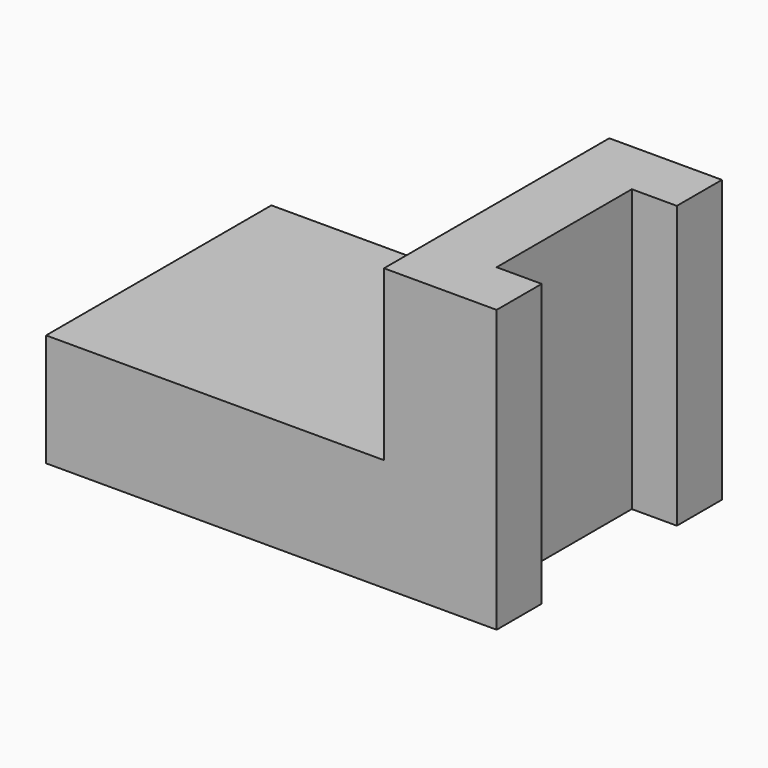
from build123d import *

# Parameters (mm, degrees)
F1_DEPTH = 50
F2_W     = 8
F2_H     = 30
F3_DEPTH = 50.001


with BuildPart() as f1:
    # F0 (on Front) → F1 (new body)
    with BuildSketch(Plane.XZ):
        Polygon((0, 20), (0, 0), (80, 0), (80, 50), (60, 50), (60, 20), align=None)
    extrude(amount=-F1_DEPTH)

    # F2 (on Top) → F3 (cut, through all)
    with BuildSketch(Plane.XY):
        with Locations((76, 25)):
            Rectangle(F2_W, F2_H)
    extrude(amount=F3_DEPTH, mode=Mode.SUBTRACT)


solid = f1.part
